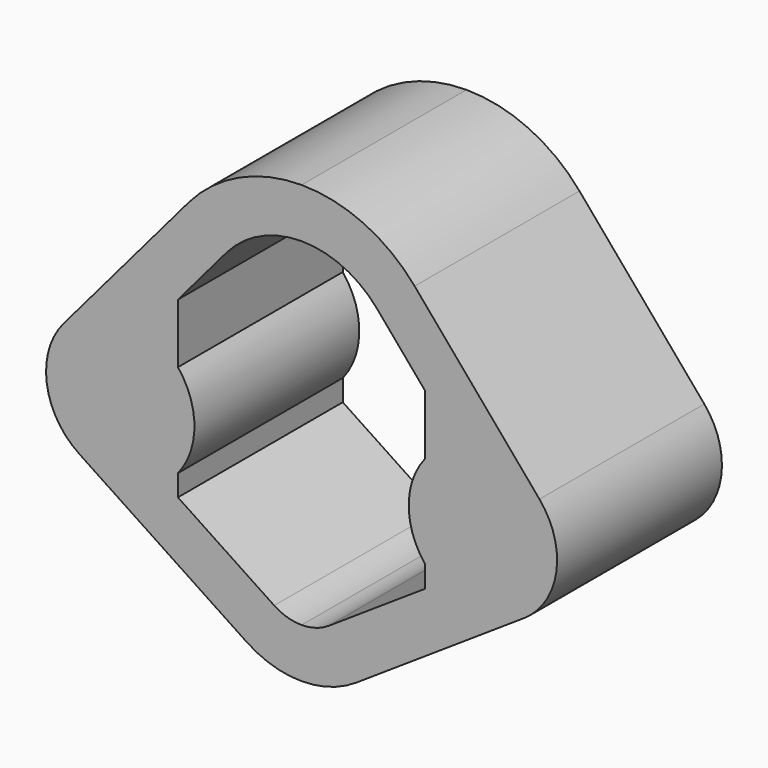
from build123d import *

# Parameters (mm, degrees)
F1_DEPTH = 25


with BuildPart() as f1:
    # F0 (on Front) → F1 (new body)
    with BuildSketch(Plane.XZ):
        with BuildLine():
            Line((28.859725, 5.826163), (13.71945, 23.652325))
            ThreePointArc((13.71945, 23.652325), (7.558378, 28.336185), (0, 30))
            ThreePointArc((0, 30), (-7.558378, 28.336185), (-13.71945, 23.652325))
            Line((-13.71945, 23.652325), (-28.859725, 5.826163))
            ThreePointArc((-28.859725, 5.826163), (-30.911458, -1.259331), (-26.976691, -7.498836))
            Line((-26.976691, -7.498836), (-6.635588, -20.998449))
            ThreePointArc((-6.635588, -20.998449), (-3.465445, -22.48872), (0, -23))
            ThreePointArc((0, -23), (3.465445, -22.48872), (6.635588, -20.998449))
            Line((6.635588, -20.998449), (26.976691, -7.498836))
            ThreePointArc((26.976691, -7.498836), (30.911458, -1.259331), (28.859725, 5.826163))
        make_face()
        with BuildLine():
            Line((15, 12.87607), (15, 5.656854))
            ThreePointArc((15, 5.656854), (13, 0), (15, -5.656854))
            Line((15, -5.656854), (15, -8.246191))
            Line((15, -8.246191), (3.317794, -15.999224))
            ThreePointArc((3.317794, -15.999224), (1.732722, -16.74436), (0, -17))
            ThreePointArc((0, -17), (-1.732722, -16.74436), (-3.317794, -15.999224))
            Line((-3.317794, -15.999224), (-15, -8.246191))
            Line((-15, -8.246191), (-15, -5.656854))
            ThreePointArc((-15, -5.656854), (-13, 0), (-15, 5.656854))
            Line((-15, 5.656854), (-15, 12.87607))
            Line((-15, 12.87607), (-9.1463, 19.768217))
            ThreePointArc((-9.1463, 19.768217), (-5.038918, 22.89079), (0, 24))
            ThreePointArc((0, 24), (5.038918, 22.89079), (9.1463, 19.768217))
            Line((9.1463, 19.768217), (15, 12.87607))
        make_face(mode=Mode.SUBTRACT)
    extrude(amount=F1_DEPTH)


solid = f1.part
